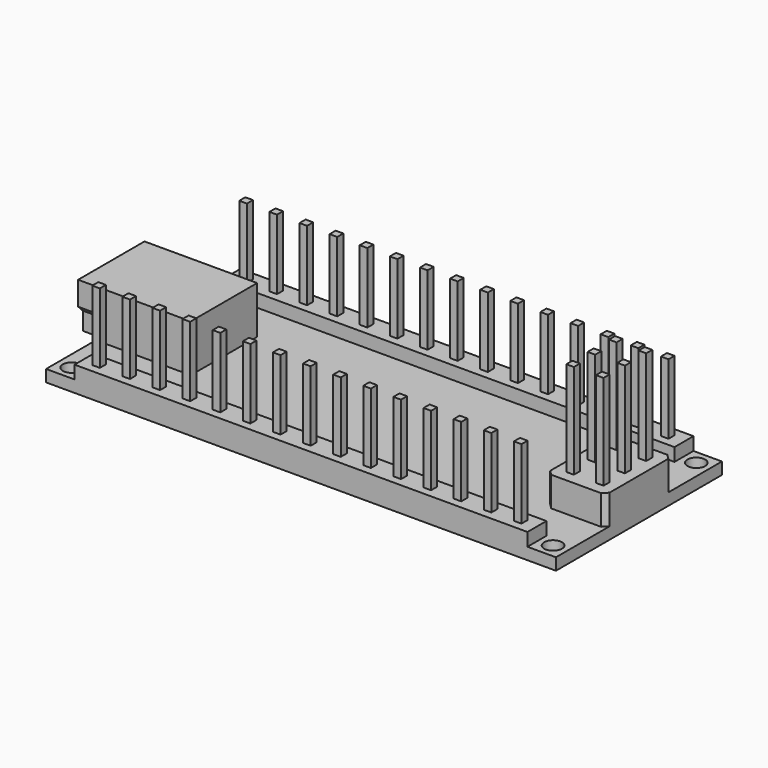
from build123d import *

# Parameters (mm, degrees)
F0_W      = 8
F0_H      = 7
F0_R      = 0.75
F0_W_2    = 5
F1_DEPTH  = 1
F0_W_3    = 1.5
F2_DEPTH  = 4
F3_DEPTH  = 2.5
F4_W      = 4.784234
F4_H      = 1.5
F5_DEPTH  = 5
F6_DEPTH  = 2
F7_W      = 38.2
F7_H      = 2
F7_W_2    = 0.64
F7_H_2    = 0.64
F8_DEPTH  = 2.1
F9_DEPTH  = 8
F10_SIZE  = 0.4
F11_W     = 0.64
F11_H     = 0.64
F12_DEPTH = 8
F13_SIZE  = 0.4


with BuildPart() as f1:
    # F0 (on Top) → F1 (new body)
    with BuildSketch(Plane.XY):
        with Locations((-17.5, 0)):
            Rectangle(F0_W, F0_H)
        Polygon((21.5, 3.5), (21.5, 8.75), (-21.5, 8.75), (-21.5, 3.5), (-13.5, 3.5), (-13.5, -3.5), (-21.5, -3.5), (-21.5, -8.75), (21.5, -8.75), (21.5, -3.5), (16.5, -3.5), (16.5, 3.5), align=None)
        with Locations((-20.3, -7.55)):
            Circle(F0_R, mode=Mode.SUBTRACT)
        with Locations((20.3, -7.55)):
            Circle(F0_R, mode=Mode.SUBTRACT)
        with Locations((-20.3, 7.55)):
            Circle(F0_R, mode=Mode.SUBTRACT)
        with Locations((20.3, 7.55)):
            Circle(F0_R, mode=Mode.SUBTRACT)
        with Locations((19, 0)):
            Rectangle(F0_W_2, F0_H)
    extrude(amount=-F1_DEPTH)

    # F0 (on Top) → F2 (join)
    with BuildSketch(Plane.XY):
        with Locations((-22.25, 0)):
            Rectangle(F0_W_3, F0_H)
        with Locations((-17.5, 0)):
            Rectangle(F0_W, F0_H)
    extrude(amount=F2_DEPTH)

    # F0 (on Top) → F3 (join)
    with BuildSketch(Plane.XY):
        with Locations((19, 0)):
            Rectangle(F0_W_2, F0_H)
    extrude(amount=F3_DEPTH)

    # F4 (on face) → F5 (cut)
    with BuildSketch(Plane(origin=(-23, 0, 0), x_dir=(0, -1, 0), z_dir=(-1, 0, 0))):
        Polygon((3.4, 3.9), (-3.4, 3.9), (-3.4, 2.041421), (-2.9, 1.541421), (-2.9, 0.1), (2.9, 0.1), (2.9, 1.541421), (3.4, 2.041421), align=None)
        with Locations((0, 2.25)):
            Rectangle(F4_W, F4_H, mode=Mode.SUBTRACT)
    extrude(amount=-F5_DEPTH, mode=Mode.SUBTRACT)

    # F4 (on face) → F6 (cut)
    with BuildSketch(Plane(origin=(-23, 0, 0), x_dir=(0, -1, 0), z_dir=(-1, 0, 0))):
        Polygon((-3, 1.5), (-3.5, 2), (-3.5, 0), (-3, 0), align=None)
        Polygon((3, 1.5), (3, 0), (3.5, 0), (3.5, 2), align=None)
    extrude(amount=-F6_DEPTH, mode=Mode.SUBTRACT)



with BuildPart() as f8:
    # F7 (on face) → F8 (new body)
    with BuildSketch(Plane(origin=(0, 0, -1), x_dir=(1, 0, 0), z_dir=(0, 0, -1))):
        with Locations((0, -7.75)):
            Rectangle(F7_W, F7_H)
        with Locations((-17.83, -7.75)):
            Rectangle(F7_W_2, F7_H_2, mode=Mode.SUBTRACT)
        with Locations((-15.29, -7.75)):
            Rectangle(F7_W_2, F7_H_2, mode=Mode.SUBTRACT)
        with Locations((-12.75, -7.75)):
            Rectangle(F7_W_2, F7_H_2, mode=Mode.SUBTRACT)
        with Locations((-10.21, -7.75)):
            Rectangle(F7_W_2, F7_H_2, mode=Mode.SUBTRACT)
        with Locations((-7.67, -7.75)):
            Rectangle(F7_W_2, F7_H_2, mode=Mode.SUBTRACT)
        with Locations((-5.13, -7.75)):
            Rectangle(F7_W_2, F7_H_2, mode=Mode.SUBTRACT)
        with Locations((-2.59, -7.75)):
            Rectangle(F7_W_2, F7_H_2, mode=Mode.SUBTRACT)
        with Locations((-0.05, -7.75)):
            Rectangle(F7_W_2, F7_H_2, mode=Mode.SUBTRACT)
        with Locations((2.49, -7.75)):
            Rectangle(F7_W_2, F7_H_2, mode=Mode.SUBTRACT)
        with Locations((5.03, -7.75)):
            Rectangle(F7_W_2, F7_H_2, mode=Mode.SUBTRACT)
        with Locations((7.57, -7.75)):
            Rectangle(F7_W_2, F7_H_2, mode=Mode.SUBTRACT)
        with Locations((10.11, -7.75)):
            Rectangle(F7_W_2, F7_H_2, mode=Mode.SUBTRACT)
        with Locations((12.65, -7.75)):
            Rectangle(F7_W_2, F7_H_2, mode=Mode.SUBTRACT)
        with Locations((15.19, -7.75)):
            Rectangle(F7_W_2, F7_H_2, mode=Mode.SUBTRACT)
        with Locations((17.73, -7.75)):
            Rectangle(F7_W_2, F7_H_2, mode=Mode.SUBTRACT)
        Polygon((19.1, 8.75), (-19.1, 8.75), (-19.1, 7.55), (-19.1, 6.75), (19.1, 6.75), (19.1, 7.55), align=None)
        with Locations((-17.83, 7.75)):
            Rectangle(F7_W_2, F7_H_2, mode=Mode.SUBTRACT)
        with Locations((-15.29, 7.75)):
            Rectangle(F7_W_2, F7_H_2, mode=Mode.SUBTRACT)
        with Locations((-12.75, 7.75)):
            Rectangle(F7_W_2, F7_H_2, mode=Mode.SUBTRACT)
        with Locations((-10.21, 7.75)):
            Rectangle(F7_W_2, F7_H_2, mode=Mode.SUBTRACT)
        with Locations((-7.67, 7.75)):
            Rectangle(F7_W_2, F7_H_2, mode=Mode.SUBTRACT)
        with Locations((-5.13, 7.75)):
            Rectangle(F7_W_2, F7_H_2, mode=Mode.SUBTRACT)
        with Locations((-2.59, 7.75)):
            Rectangle(F7_W_2, F7_H_2, mode=Mode.SUBTRACT)
        with Locations((-0.05, 7.75)):
            Rectangle(F7_W_2, F7_H_2, mode=Mode.SUBTRACT)
        with Locations((2.49, 7.75)):
            Rectangle(F7_W_2, F7_H_2, mode=Mode.SUBTRACT)
        with Locations((5.03, 7.75)):
            Rectangle(F7_W_2, F7_H_2, mode=Mode.SUBTRACT)
        with Locations((7.57, 7.75)):
            Rectangle(F7_W_2, F7_H_2, mode=Mode.SUBTRACT)
        with Locations((10.11, 7.75)):
            Rectangle(F7_W_2, F7_H_2, mode=Mode.SUBTRACT)
        with Locations((12.65, 7.75)):
            Rectangle(F7_W_2, F7_H_2, mode=Mode.SUBTRACT)
        with Locations((15.19, 7.75)):
            Rectangle(F7_W_2, F7_H_2, mode=Mode.SUBTRACT)
        with Locations((17.73, 7.75)):
            Rectangle(F7_W_2, F7_H_2, mode=Mode.SUBTRACT)
    extrude(amount=-F8_DEPTH)


with BuildPart() as f1_1:
    add(f1.part)

    add(f8.part)  # F9 merges F8
    # F7 (on face) → F9 (join)
    with BuildSketch(Plane(origin=(0, 0, -1), x_dir=(1, 0, 0), z_dir=(0, 0, -1))):
        with Locations((-17.83, 7.75)):
            Rectangle(F7_W_2, F7_H_2)
        with Locations((-15.29, 7.75)):
            Rectangle(F7_W_2, F7_H_2)
        with Locations((-12.75, 7.75)):
            Rectangle(F7_W_2, F7_H_2)
        with Locations((-10.21, 7.75)):
            Rectangle(F7_W_2, F7_H_2)
        with Locations((-7.67, 7.75)):
            Rectangle(F7_W_2, F7_H_2)
        with Locations((-5.13, 7.75)):
            Rectangle(F7_W_2, F7_H_2)
        with Locations((-2.59, 7.75)):
            Rectangle(F7_W_2, F7_H_2)
        with Locations((-0.05, 7.75)):
            Rectangle(F7_W_2, F7_H_2)
        with Locations((2.49, 7.75)):
            Rectangle(F7_W_2, F7_H_2)
        with Locations((5.03, 7.75)):
            Rectangle(F7_W_2, F7_H_2)
        with Locations((7.57, 7.75)):
            Rectangle(F7_W_2, F7_H_2)
        with Locations((10.11, 7.75)):
            Rectangle(F7_W_2, F7_H_2)
        with Locations((12.65, 7.75)):
            Rectangle(F7_W_2, F7_H_2)
        with Locations((15.19, 7.75)):
            Rectangle(F7_W_2, F7_H_2)
        with Locations((17.73, 7.75)):
            Rectangle(F7_W_2, F7_H_2)
        with Locations((-17.83, -7.75)):
            Rectangle(F7_W_2, F7_H_2)
        with Locations((-15.29, -7.75)):
            Rectangle(F7_W_2, F7_H_2)
        with Locations((-12.75, -7.75)):
            Rectangle(F7_W_2, F7_H_2)
        with Locations((-10.21, -7.75)):
            Rectangle(F7_W_2, F7_H_2)
        with Locations((-7.67, -7.75)):
            Rectangle(F7_W_2, F7_H_2)
        with Locations((-5.13, -7.75)):
            Rectangle(F7_W_2, F7_H_2)
        with Locations((-2.59, -7.75)):
            Rectangle(F7_W_2, F7_H_2)
        with Locations((-0.05, -7.75)):
            Rectangle(F7_W_2, F7_H_2)
        with Locations((2.49, -7.75)):
            Rectangle(F7_W_2, F7_H_2)
        with Locations((5.03, -7.75)):
            Rectangle(F7_W_2, F7_H_2)
        with Locations((7.57, -7.75)):
            Rectangle(F7_W_2, F7_H_2)
        with Locations((10.11, -7.75)):
            Rectangle(F7_W_2, F7_H_2)
        with Locations((12.65, -7.75)):
            Rectangle(F7_W_2, F7_H_2)
        with Locations((15.19, -7.75)):
            Rectangle(F7_W_2, F7_H_2)
        with Locations((17.73, -7.75)):
            Rectangle(F7_W_2, F7_H_2)
    extrude(amount=-F9_DEPTH)

    # F10
    f10_edges = [f1_1.edges().sort_by_distance(p)[0] for p in [
        (-20.5, -2.392117, 1.5),
        (-20.5, 2.392117, 1.5),
    ]]
    chamfer(f10_edges, length=F10_SIZE)

    # F11 (on face) → F12 (join)
    with BuildSketch(Plane.XY.offset(2.5)):
        with Locations((20.25, -2.25)):
            Rectangle(F11_W, F11_H)
        with Locations((17.75, -2.25)):
            Rectangle(F11_W, F11_H)
        with Locations((17.75, 0)):
            Rectangle(F11_W, F11_H)
        with Locations((20.25, 0)):
            Rectangle(F11_W, F11_H)
        with Locations((20.25, 2.25)):
            Rectangle(F11_W, F11_H)
        with Locations((17.75, 2.25)):
            Rectangle(F11_W, F11_H)
    extrude(amount=F12_DEPTH)

    # F13
    f13_edges = [f1_1.edges().sort_by_distance(p)[0] for p in [
        (21.5, 3.5, 1.25),
        (16.5, 3.5, 1.25),
        (21.5, -3.5, 1.25),
        (16.5, -3.5, 1.25),
    ]]
    chamfer(f13_edges, length=F13_SIZE)


solid = f1_1.part
